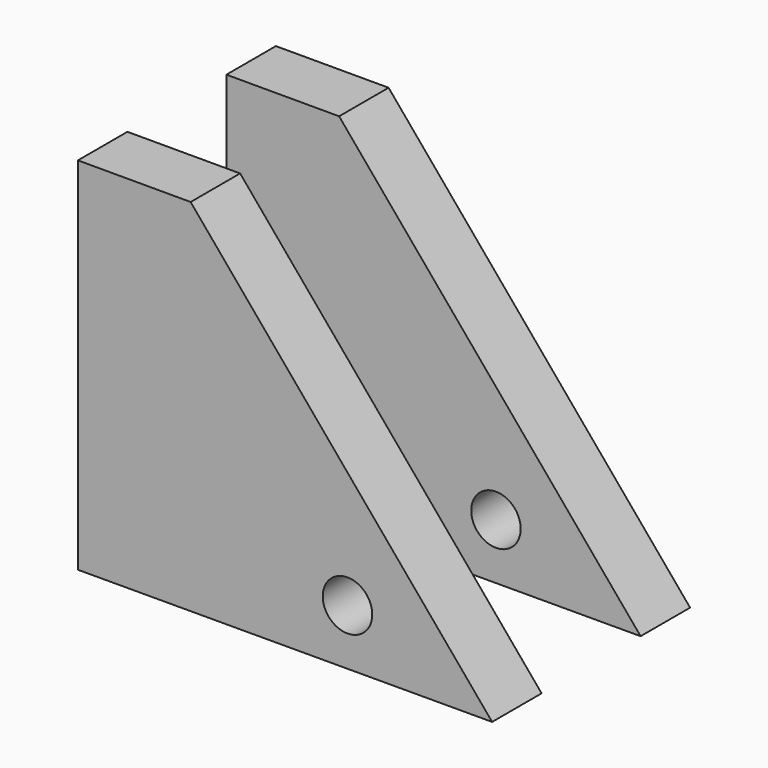
from build123d import *

# Parameters (mm, degrees)
F0_R     = 10
F1_DEPTH = 50
F2_DEPTH = 45
F3_W     = 200
F3_H     = 50
F4_DEPTH = 200


with BuildPart() as f1:
    # F0 (on Front) → F1 (new body, symmetric)
    with BuildSketch(Plane.XZ):
        Polygon((-53.655501008, 45.6514658559), (-53.655501008, -100), (113.733805716, -99.692940712), (-8.0987406167, 45.6514658559), align=None)
        with Locations((55.2866719663, -77.2568359971)):
            Circle(F0_R, mode=Mode.SUBTRACT)
    extrude(amount=F1_DEPTH, both=True)

    # F0 (on Front) → F2 (join, symmetric)
    with BuildSketch(Plane.XZ):
        Polygon((-53.655501008, 45.6514658559), (-53.655501008, -100), (113.733805716, -99.692940712), (-8.0987406167, 45.6514658559), align=None)
        with Locations((55.2866719663, -77.2568359971)):
            Circle(F0_R, mode=Mode.SUBTRACT)
    extrude(amount=F2_DEPTH, both=True)

    # F3 (on Top) → F4 (cut, symmetric)
    with BuildSketch(Plane.XY):
        with Locations((16.5363159031, 0)):
            Rectangle(F3_W, F3_H)
    extrude(amount=F4_DEPTH, both=True, mode=Mode.SUBTRACT)


solid = f1.part
